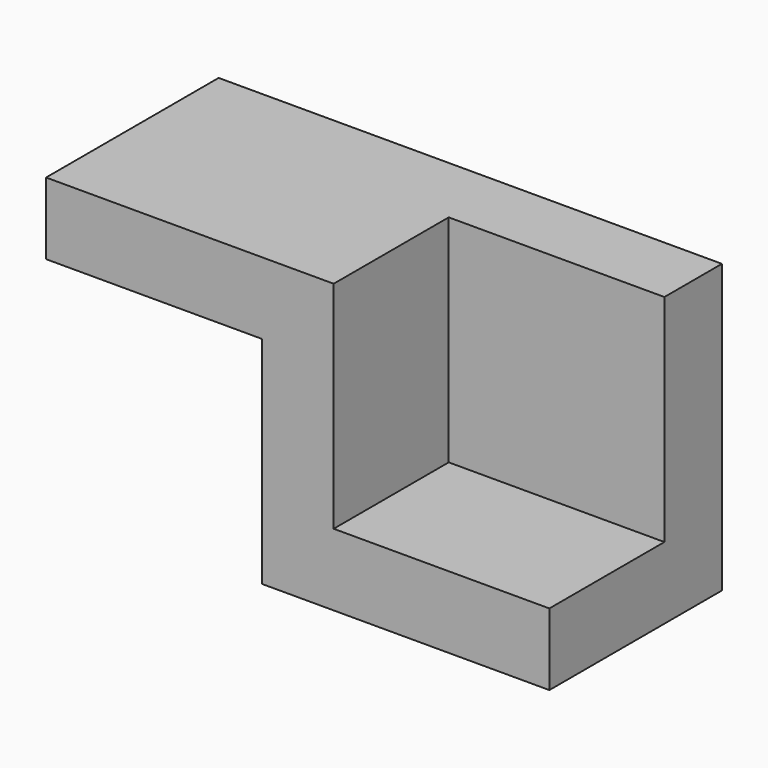
from build123d import *

# Parameters (mm, degrees)
F1_DEPTH = 20
F2_W     = 30
F2_H     = 30
F3_DEPTH = 10


with BuildPart() as f1:
    # F0 (on Front) → F1 (new body)
    with BuildSketch(Plane.XZ):
        Polygon((0, 30), (0, 0), (40, 0), (40, 10), (10, 10), (10, 40), (-30, 40), (-30, 30), align=None)
    extrude(amount=F1_DEPTH)

    # F2 (on face) → F3 (join)
    with BuildSketch(Plane(origin=(0, 0, 0), x_dir=(-1, 0, 0), z_dir=(0, 1, 0))):
        Polygon((-10, 10), (-40, 10), (-40, 0), (0, 0), (0, 30), (30, 30), (30, 40), (-10, 40), align=None)
        with Locations((-25, 25)):
            Rectangle(F2_W, F2_H)
    extrude(amount=F3_DEPTH)


solid = f1.part
